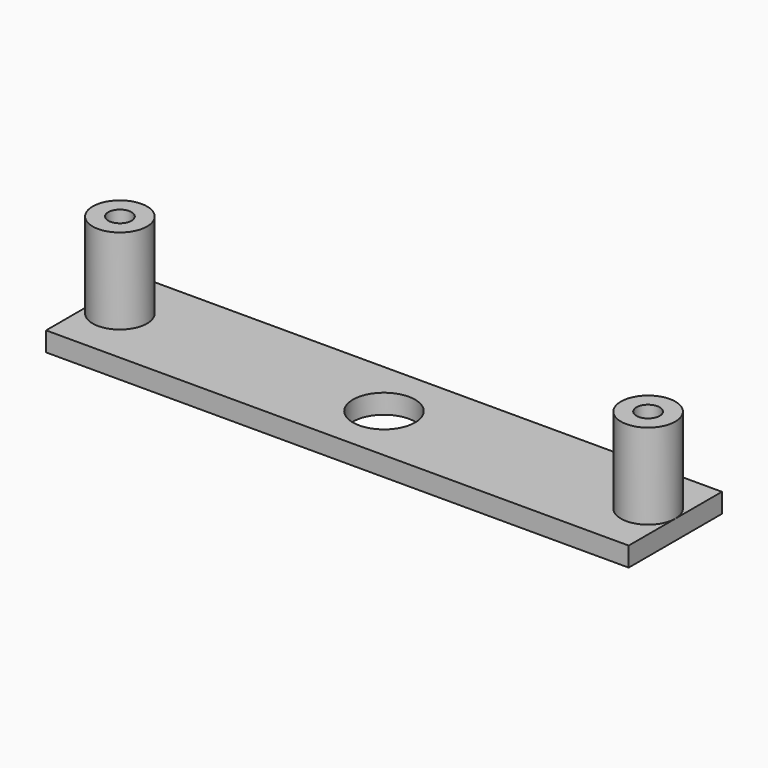
from build123d import *

# Parameters (mm, degrees)
F0_R     = 1.5
F1_DEPTH = 13.5
F2_DEPTH = 2.5
F3_DEPTH = 2.5
F4_R     = 4
F5_DEPTH = 25


with BuildPart() as f1:
    # F0 (on Top) → F1 (new body)
    with BuildSketch(Plane.XY):
        with BuildLine():
            ThreePointArc((30.5, 0), (34, -3.5), (37.5, 0))
            ThreePointArc((37.5, 0), (34, 3.5), (30.5, 0))
        make_face()
        with BuildLine():
            ThreePointArc((35.5, 0), (34, -1.5), (32.5, 0))
            ThreePointArc((32.5, 0), (34, 1.5), (35.5, 0))
        make_face(mode=Mode.SUBTRACT)
        with BuildLine():
            ThreePointArc((-30.5, 0), (-34, 3.5), (-37.5, 0))
            ThreePointArc((-37.5, 0), (-34, -3.5), (-30.5, 0))
        make_face()
        with Locations((-34, 0)):
            Circle(F0_R, mode=Mode.SUBTRACT)
    extrude(amount=F1_DEPTH)

    # F0 (on Top) → F2 (join)
    with BuildSketch(Plane.XY):
        with BuildLine():
            ThreePointArc((30.5, 0), (34, 3.5), (37.5, 0))
            Line((37.5, 0), (37.5, 7.5))
            Line((37.5, 7.5), (-37.5, 7.5))
            Line((-37.5, 7.5), (-37.5, 0))
            ThreePointArc((-37.5, 0), (-34, 3.5), (-30.5, 0))
            Line((-30.5, 0), (0, 0))
            Line((0, 0), (30.5, 0))
        make_face()
    extrude(amount=F2_DEPTH)

    # F0 (on Top) → F3 (join)
    with BuildSketch(Plane.XY):
        with BuildLine():
            Line((-37.5, -7.5), (37.5, -7.5))
            Line((37.5, -7.5), (37.5, 0))
            ThreePointArc((37.5, 0), (34, -3.5), (30.5, 0))
            Line((30.5, 0), (0, 0))
            Line((0, 0), (-30.5, 0))
            ThreePointArc((-30.5, 0), (-34, -3.5), (-37.5, 0))
            Line((-37.5, 0), (-37.5, -7.5))
        make_face()
    extrude(amount=F3_DEPTH)

    # F4 (on Top) → F5 (cut)
    with BuildSketch(Plane.XY):
        Circle(F4_R)
    extrude(amount=F5_DEPTH, mode=Mode.SUBTRACT)


solid = f1.part
